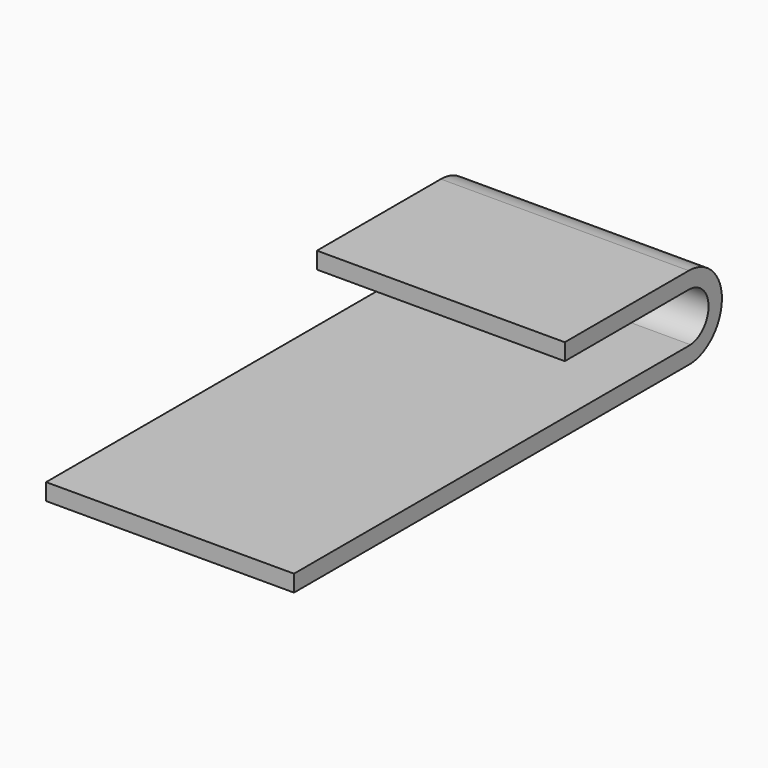
from build123d import *

# Parameters (mm, degrees)
F1_DEPTH = 4


with BuildPart() as f1:
    # F0 (on Right) → F1 (new body)
    with BuildSketch(Plane.YZ):
        with BuildLine():
            Line((0, 0.26942), (0, 0))
            Line((0, 0), (2.5, 0))
            ThreePointArc((2.5, 0), (2.899546, -0.380957), (2.538042, -0.798187))
            Line((2.538042, -0.798187), (-5.461958, -0.798187))
            Line((-5.461958, -0.798187), (-5.461958, -1.067607))
            Line((-5.461958, -1.067607), (2.549236, -1.067607))
            ThreePointArc((2.549236, -1.067607), (3.168967, -0.375365), (2.5, 0.26942))
            Line((2.5, 0.26942), (0, 0.26942))
        make_face()
    extrude(amount=F1_DEPTH)


solid = f1.part
